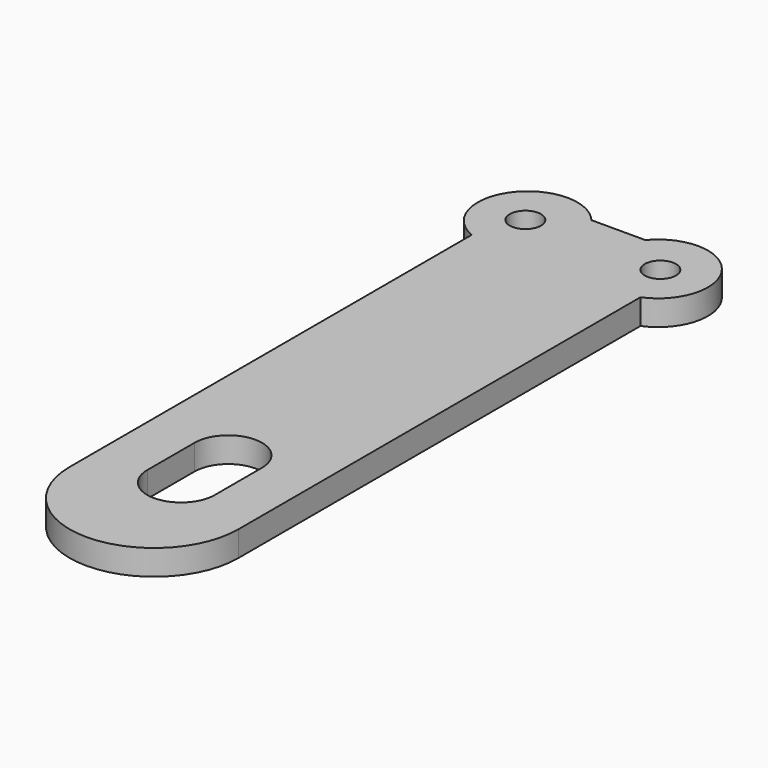
from build123d import *

# Parameters (mm, degrees)
SKETCH_R  = 1.85
PAD_DEPTH = 3


with BuildPart() as part:
    # Sketch → Pad (new body)
    with BuildSketch(Plane.XY):
        with BuildLine():
            ThreePointArc((-10, 0), (0, -10), (10, 0))
            Line((10, 0), (10, 59.547349))
            ThreePointArc((10, 59.547349), (12.484765, 68.50486), (3.193049, 68.778855))
            Line((-3.193049, 68.778855), (3.193049, 68.778855))
            ThreePointArc((-3.193049, 68.778855), (-12.484765, 68.50486), (-10, 59.547349))
            Line((-10, 59.547349), (-10, 0))
        make_face()
        with Locations((8, 65)):
            Circle(SKETCH_R, mode=Mode.SUBTRACT)
        with Locations((-8, 65)):
            Circle(SKETCH_R, mode=Mode.SUBTRACT)
        with BuildLine():
            ThreePointArc((4, 11), (0, 15), (-4, 11))
            Line((-4, 11), (-4, 4))
            ThreePointArc((-4, 4), (0, 0), (4, 4))
            Line((4, 4), (4, 11))
        make_face(mode=Mode.SUBTRACT)
    extrude(amount=PAD_DEPTH)


solid = part.part
